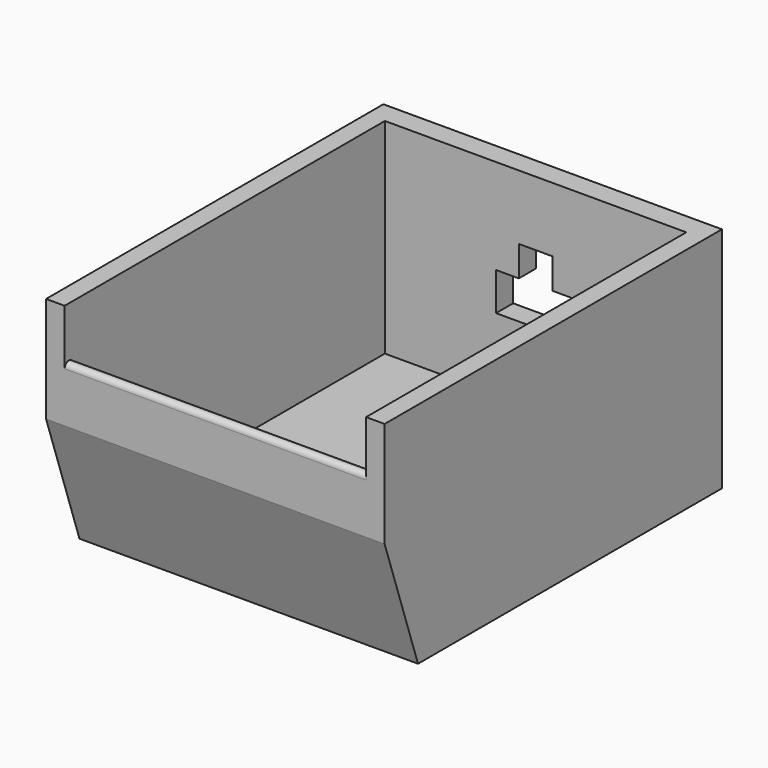
from build123d import *

# Parameters (mm, degrees)
F2_DEPTH  = 56.49083
F3_DEPTH  = 50.29662
F4_W      = 17.6400020719
F4_H      = 34.6500007436
F5_DEPTH  = 152.4
F6_W      = 8.1899985671
F6_H      = 40.634999983
F7_DEPTH  = 152.4
F8_R      = 1.7367288427
F9_W      = 11.1553873867
F9_H      = 10.141255334
F10_DEPTH = 26.2403


with BuildPart() as f2:
    # F0 (on Right) → F2 (new body, symmetric)
    with BuildSketch(Plane.YZ):
        Polygon((76.3685554266, 0), (-76.3685554266, 0), (-50.4032447934, -76.1139914393), (76.3685554266, -76.1139914393), align=None)
    extrude(amount=F2_DEPTH, both=True)

    # F1 (on face) → F3 (cut, symmetric)
    with BuildSketch(Plane.YZ):
        Polygon((69.2408159375, 0), (-67.0627951622, 0), (-43.7846407294, -68.349853158), (69.2408159375, -68.349853158), align=None)
    extrude(amount=F3_DEPTH, both=True, mode=Mode.SUBTRACT)

    # F4 (on Right) → F5 (cut, symmetric)
    with BuildSketch(Plane.YZ):
        with Locations((-75.7574997842, -6.6150003113)):
            Rectangle(F4_W, F4_H)
    extrude(amount=F5_DEPTH, both=True, mode=Mode.SUBTRACT)

    # F6 (on Right) → F7 (cut, symmetric)
    with BuildSketch(Plane.YZ):
        with Locations((-68.42822209, -15.2774997987)):
            Rectangle(F6_W, F6_H)
    extrude(amount=F7_DEPTH, both=True, mode=Mode.SUBTRACT)

    # F8
    f8_edges = [f2.edges().sort_by_distance(p)[0] for p in [
        (0, -64.333223, -8.014633),
    ]]
    fillet(f8_edges, radius=F8_R)

    # F9 (on face) → F10 (cut)
    with BuildSketch(Plane(origin=(0, 76.3685554266, 0), x_dir=(-1, 0, 0), z_dir=(0, 1, 0))):
        Polygon((-5.5776936933, -31.7187085748), (-13.1836356595, -31.7187085748), (-13.1836356595, -44.3952828646), (13.1836356595, -44.3952828646), (13.1836356595, -31.7187085748), (5.5776936933, -31.7187085748), (5.5776936933, -41.8599639088), (-5.5776936933, -41.8599639088), align=None)
        with Locations((0, -26.6480809078)):
            Rectangle(F9_W, F9_H)
        with Locations((0, -36.7893362418)):
            Rectangle(F9_W, F9_H)
    extrude(amount=-F10_DEPTH, mode=Mode.SUBTRACT)


solid = f2.part
